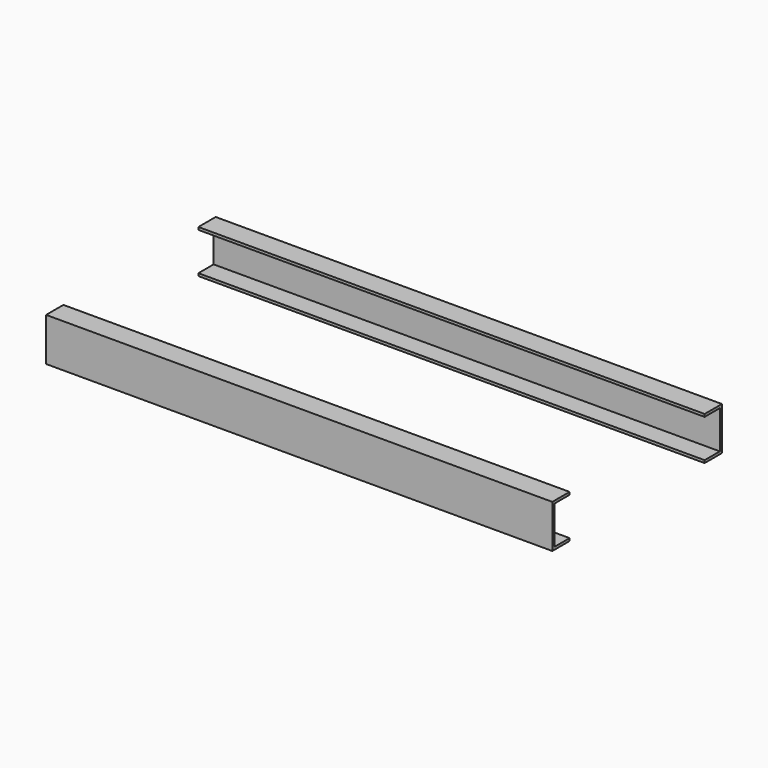
from build123d import *

# Parameters (mm, degrees)
F1_DEPTH = 292.5


with BuildPart() as f1:
    # F0 (on Right) → F1 (new body, symmetric)
    with BuildSketch(Plane.YZ):
        Polygon((-97.5, -30.981961), (-122.5, -30.981961), (-122.5, -80.981961), (-97.5, -80.981961), (-97.5, -77.981961), (-119.5, -77.981961), (-119.5, -33.981961), (-97.5, -33.981961), align=None)
        Polygon((97.5, -77.981961), (97.5, -80.981961), (122.5, -80.981961), (122.5, -30.981961), (97.5, -30.981961), (97.5, -33.981961), (119.5, -33.981961), (119.5, -77.981961), align=None)
    extrude(amount=F1_DEPTH, both=True)


solid = f1.part
